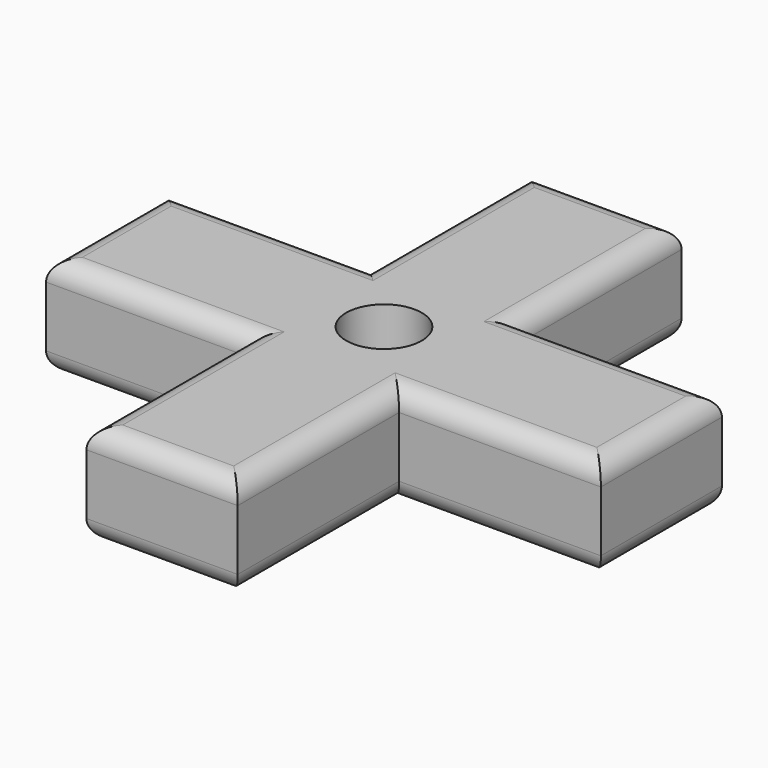
from build123d import *

# Parameters (mm, degrees)
F0_W     = 19.05
F0_H     = 69.85
F1_DEPTH = 12.7
F2_W     = 69.85
F2_H     = 19.05
F3_DEPTH = 12.7
F4_R     = 2.54
F5_R     = 2.54
F7_DEPTH = 5.9436
F9_D     = 9.525


with BuildPart() as f1:
    # F0 (on Top) → F1 (new body)
    with BuildSketch(Plane.XY):
        Rectangle(F0_W, F0_H)
    extrude(amount=F1_DEPTH)

    # F2 (on Top) → F3 (join)
    with BuildSketch(Plane.XY):
        Rectangle(F2_W, F2_H)
    extrude(amount=F3_DEPTH)

    # F4
    f4_edges = [f1.edges().sort_by_distance(p)[0] for p in [
        (0, 34.925, 12.7),
        (-9.525, 22.225, 12.7),
        (-9.525, -22.225, 12.7),
        (9.525, 22.225, 12.7),
        (9.525, -22.225, 12.7),
        (-22.225, 9.525, 12.7),
        (-34.925, 0, 12.7),
        (-22.225, -9.525, 12.7),
        (0, -34.925, 12.7),
        (22.225, -9.525, 12.7),
        (34.925, 0, 12.7),
        (22.225, 9.525, 12.7),
    ]]
    fillet(f4_edges, radius=F4_R)

    # F5
    f5_edges = [f1.edges().sort_by_distance(p)[0] for p in [
        (-9.525, 22.225, 0),
        (-9.525, -22.225, 0),
        (0, -34.925, 0),
        (9.525, 22.225, 0),
        (9.525, -22.225, 0),
        (0, 34.925, 0),
        (-22.225, 9.525, 0),
        (-34.925, 0, 0),
        (-22.225, -9.525, 0),
        (22.225, -9.525, 0),
        (34.925, 0, 0),
        (22.225, 9.525, 0),
    ]]
    fillet(f5_edges, radius=F5_R)

    # F6 (on Top) → F7 (cut)
    with BuildSketch(Plane.XY):
        Polygon((-4.230765, 7.3279), (-8.46153, 0), (-4.230765, -7.3279), (4.230765, -7.3279), (8.46153, 0), (4.230765, 7.3279), align=None)
    extrude(amount=F7_DEPTH, mode=Mode.SUBTRACT)

    # F9 (through all)
    with Locations(Plane(origin=(0, 0, 0), x_dir=(1, 0, 0), z_dir=(0, 0, -1))):
        with Locations((0, 0)):
            Hole(F9_D / 2)


solid = f1.part
